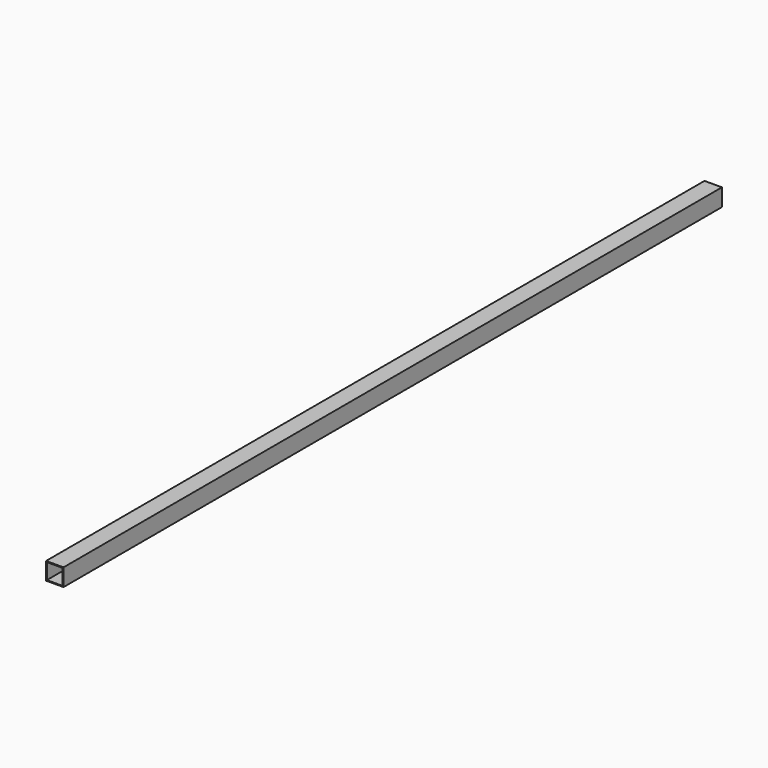
from build123d import *

# Parameters (mm, degrees)
F0_W     = 25.4
F0_H     = 1200
F1_DEPTH = 25.4
F2_T     = -1.2


with BuildPart() as f1:
    # F0 (on Top) → F1 (new body)
    with BuildSketch(Plane.XY):
        Rectangle(F0_W, F0_H)
    extrude(amount=F1_DEPTH)

    # F2
    f2_openings = [f1.faces().sort_by_distance(p)[0] for p in [
        (0, -600, 12.7),
        (0, 600, 12.7),
    ]]
    offset(amount=F2_T, openings=f2_openings)


solid = f1.part
